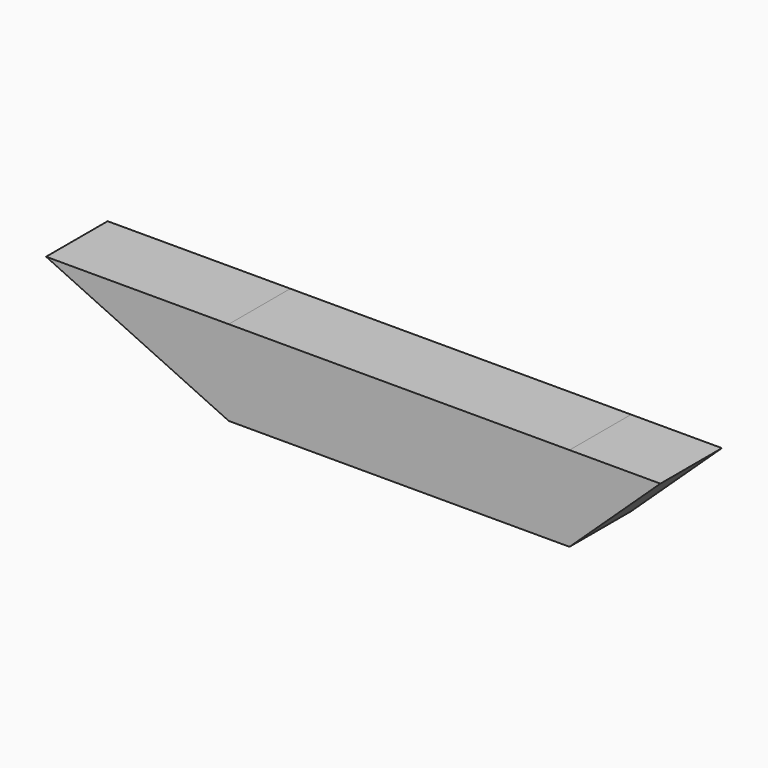
from build123d import *

# Parameters (mm, degrees)
F0_W     = 112.514064
F0_H     = 28.128517
F1_DEPTH = 25.4
F2_DEPTH = 25.4


with BuildPart() as f1:
    # F0 (on Front) → F1 (new body)
    with BuildSketch(Plane.XZ):
        with Locations((2.344042, 7.657208)):
            Rectangle(F0_W, F0_H)
    extrude(amount=F1_DEPTH)

    # F0 (on Front) → F2 (join)
    with BuildSketch(Plane.XZ):
        with Locations((2.344042, 7.657208)):
            Rectangle(F0_W, F0_H)
        Polygon((-53.91299, -6.407051), (-53.91299, 21.721466), (-114.233024, 21.721466), align=None)
        Polygon((88.604823, 21.721466), (58.601074, 21.721466), (58.601074, -6.407051), align=None)
    extrude(amount=F2_DEPTH)


solid = f1.part
